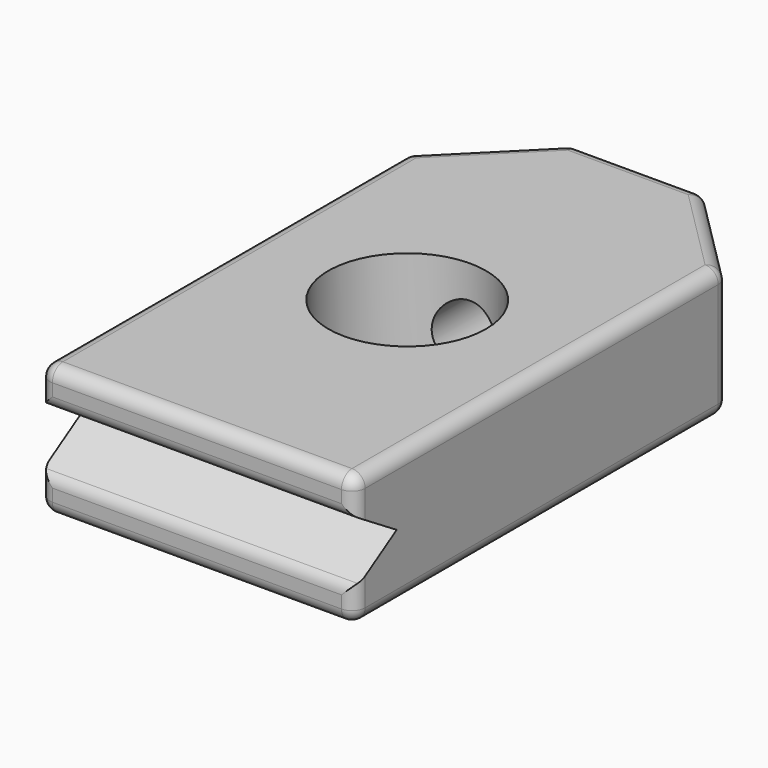
from build123d import *

# Parameters (mm, degrees)
F1_DEPTH = 5
F3_DEPTH = 12.001
F5_DEPTH = 5.001
F7_D     = 2.5
F7_DEPTH = 12
F7_TIP   = 0.7510757738
F8_R     = 0.5


with BuildPart() as f1:
    # F0 (on Top) → F1 (new body)
    with BuildSketch(Plane.XY):
        Polygon((0, 17.5), (0, 0), (12, 0), (12, 17.5), (8.5, 21), (3.5, 21), align=None)
    extrude(amount=F1_DEPTH)

    # F2 (on face) → F3 (cut, through all)
    with BuildSketch(Plane.YZ.offset(12)):
        Polygon((0, 3.75), (0, 2.5), (0, 1.25), (2, 2.5), align=None)
    extrude(amount=-F3_DEPTH, mode=Mode.SUBTRACT)

    # F4 (on face) → F5 (cut, through all)
    with BuildSketch(Plane.XY.offset(5)):
        with BuildLine():
            ThreePointArc((9, 10), (3.8786796564, 12.1213203436), (6, 7))
            ThreePointArc((6, 7), (8.1213203436, 7.8786796564), (9, 10))
        make_face()
    extrude(amount=-F5_DEPTH, mode=Mode.SUBTRACT)

    # F7
    with Locations(Plane(origin=(0, 21, 0), x_dir=(-1, 0, 0), z_dir=(0, 1, 0))):
        with Locations((-6, 2.5)):
            Hole(F7_D / 2, depth=F7_DEPTH)
            with Locations((0, 0, -(F7_DEPTH + F7_TIP / 2))):  # 118° drill point
                Cone(0, F7_D / 2, F7_TIP, mode=Mode.SUBTRACT)

    # F8
    f8_edges = [f1.edges().sort_by_distance(p)[0] for p in [
        (1.75, 19.25, 5),
        (3.5, 21, 2.5),
        (1.75, 19.25, 0),
        (6, 21, 5),
        (8.5, 21, 2.5),
        (6, 21, 0),
        (10.25, 19.25, 0),
        (10.25, 19.25, 5),
        (12, 17.5, 2.5),
        (0, 17.5, 2.5),
        (0, 8.75, 5),
        (0, 8.75, 0),
        (12, 8.75, 5),
        (12, 8.75, 0),
        (12, 0, 0.625),
        (6, 0, 1.25),
        (6, 0, 0),
        (12, 0, 4.375),
        (6, 0, 3.75),
        (6, 0, 5),
        (0, 0, 4.375),
        (0, 0, 0.625),
    ]]
    fillet(f8_edges, radius=F8_R)


solid = f1.part
